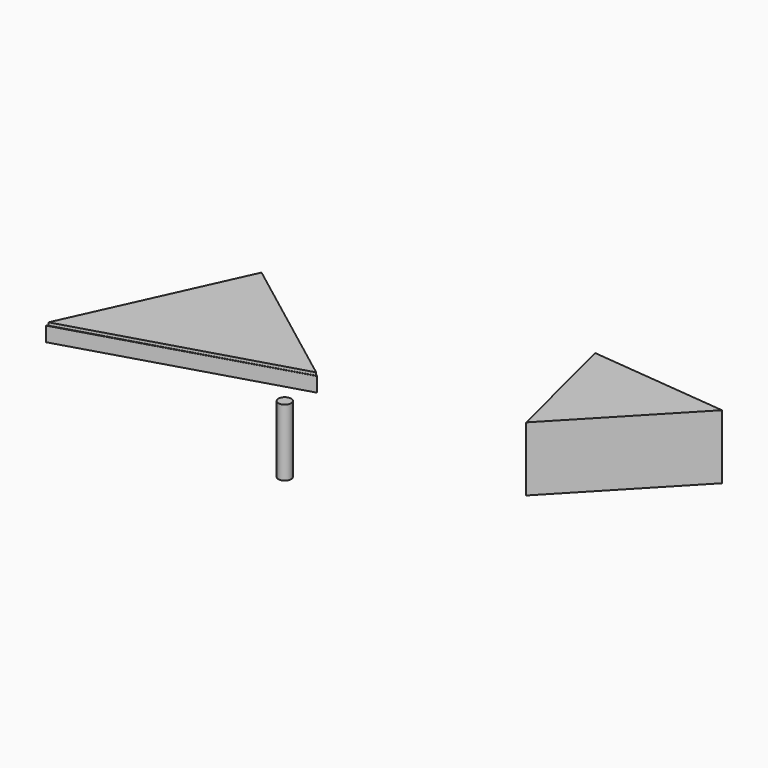
from build123d import *

# Parameters (mm, degrees)
F1_DEPTH = 110
F2_R     = 10.292343
F2_R_2   = 15.509083
F2_R_3   = 15.844509
F2_R_4   = 15.254262
F2_R_5   = 10.235949
F2_R_6   = 10.097161
F2_R_7   = 10.188808
F2_R_8   = 15.278498
F2_R_9   = 15.465105
F2_R_10  = 10.401689
F2_R_11  = 10.029394
F2_R_12  = 15.465108
F2_R_13  = 15.525489
F2_R_14  = 15.096032
F2_R_15  = 10.321717
F2_R_16  = 15.097701
F2_R_17  = 15.128679
F2_R_18  = 10.065276
F2_R_19  = 15.402066
F2_R_20  = 15.410795
F2_R_21  = 15.03703
F2_R_22  = 15.340495
F2_R_23  = 10.133639
F3_DEPTH = 25
F5_DEPTH = 5
F6_R     = 10.840735
F7_DEPTH = 177
F8_W     = 99.308104
F8_H     = 36.285651
F9_DEPTH = 407


with BuildPart() as f1:
    # F0 (on Top) → F1 (new body)
    with BuildSketch(Plane.XY):
        Polygon((498.83008, -112.883665), (263.577729, -89.580372), (316.842437, -303.748757), align=None)
    extrude(amount=F1_DEPTH)


with BuildPart() as f3:
    # F2 (on Top) → F3 (new body)
    with BuildSketch(Plane.XY):
        Polygon((-116.753116, -208.565578), (-356.450528, -28.242754), (-490.593106, -320.717603), align=None)
        with Locations((-447.757274, -276.603192)):
            Circle(F2_R, mode=Mode.SUBTRACT)
        with Locations((-384.397149, -261.203229)):
            Circle(F2_R_2, mode=Mode.SUBTRACT)
        with Locations((-344.858766, -247.61191)):
            Circle(F2_R_3, mode=Mode.SUBTRACT)
        with Locations((-419.7945, -243.245304)):
            Circle(F2_R_4, mode=Mode.SUBTRACT)
        with Locations((-412.843019, -200.069696)):
            Circle(F2_R_5, mode=Mode.SUBTRACT)
        with Locations((-374.244511, -225.613058)):
            Circle(F2_R_6, mode=Mode.SUBTRACT)
        with Locations((-309.027106, -246.788189)):
            Circle(F2_R_7, mode=Mode.SUBTRACT)
        with Locations((-374.934822, -193.59757)):
            Circle(F2_R_8, mode=Mode.SUBTRACT)
        with Locations((-336.531103, -209.450155)):
            Circle(F2_R_9, mode=Mode.SUBTRACT)
        with Locations((-317.475587, -177.793443)):
            Circle(F2_R_10, mode=Mode.SUBTRACT)
        with Locations((-269.076854, -230.725721)):
            Circle(F2_R_7, mode=Mode.SUBTRACT)
        with Locations((-296.671361, -219.60555)):
            Circle(F2_R_11, mode=Mode.SUBTRACT)
        with Locations((-270.899951, -189.368978)):
            Circle(F2_R_12, mode=Mode.SUBTRACT)
        with Locations((-228.714764, -209.720954)):
            Circle(F2_R_13, mode=Mode.SUBTRACT)
        with Locations((-180.597872, -197.586671)):
            Circle(F2_R_14, mode=Mode.SUBTRACT)
        with Locations((-392.81705, -157.113865)):
            Circle(F2_R_15, mode=Mode.SUBTRACT)
        with Locations((-347.763091, -151.883587)):
            Circle(F2_R_16, mode=Mode.SUBTRACT)
        with Locations((-375.26527, -116.179802)):
            Circle(F2_R_17, mode=Mode.SUBTRACT)
        with Locations((-342.301399, -111.333482)):
            Circle(F2_R_18, mode=Mode.SUBTRACT)
        with Locations((-308.844924, -105.80162)):
            Circle(F2_R_19, mode=Mode.SUBTRACT)
        with Locations((-347.763091, -73.110364)):
            Circle(F2_R_20, mode=Mode.SUBTRACT)
        with Locations((-293.768764, -145.345747)):
            Circle(F2_R_21, mode=Mode.SUBTRACT)
        with Locations((-224.860191, -167.328671)):
            Circle(F2_R_22, mode=Mode.SUBTRACT)
        with Locations((-257.810622, -134.558305)):
            Circle(F2_R_23, mode=Mode.SUBTRACT)
    extrude(amount=-F3_DEPTH)

    # F4 (on Top) → F5 (join)
    with BuildSketch(Plane.XY):
        Polygon((-488.087267, -318.732917), (-118.527099, -208.447725), (-355.881959, -28.558293), align=None)
    extrude(amount=F5_DEPTH)

    # F6 (on Top) → F7 (join)
    with BuildSketch(Plane.XY):
        with Locations((-180.818155, -197.681531)):
            Circle(F6_R)
    extrude(amount=-F7_DEPTH)

    # F8 (on Front) → F9 (cut)
    with BuildSketch(Plane.XZ):
        with Locations((-181.454748, -44.442818)):
            Rectangle(F8_W, F8_H)
    extrude(amount=F9_DEPTH, mode=Mode.SUBTRACT)


solid = Compound([f1.part, f3.part])
